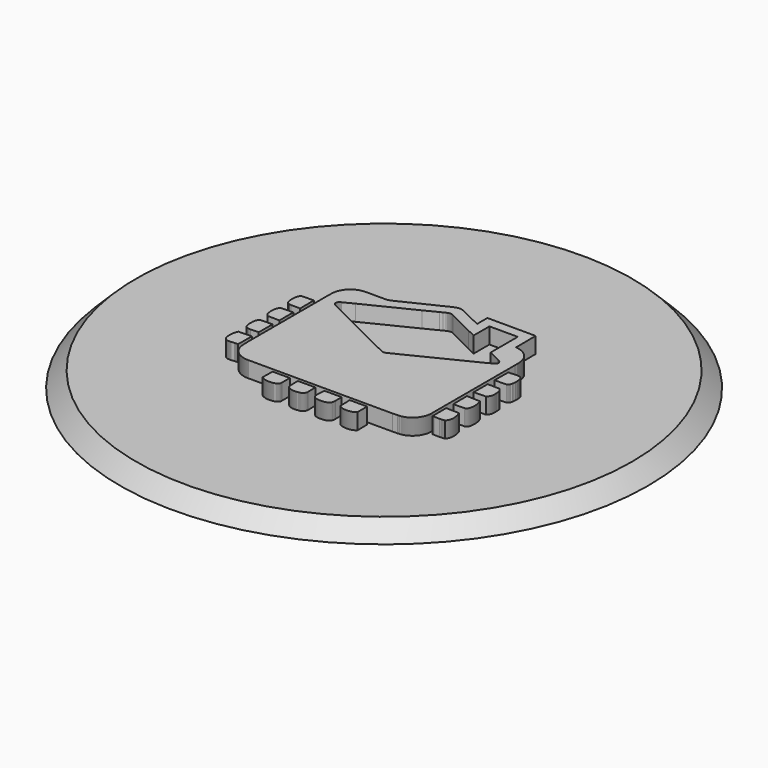
from build123d import *

# Parameters (mm, degrees)
F0_R     = 33
F1_DEPTH = 2
F1_TAPER = 45
F3_DEPTH = 4


with BuildPart() as f1:
    # F0 (on Top) → F1 (new body)
    with BuildSketch(Plane.XY):
        Circle(F0_R)
    extrude(amount=F1_DEPTH, taper=F1_TAPER)

    # F2 (on Top) → F3 (join)
    with BuildSketch(Plane.XY):
        Polygon((9.4269419945, 11.8972070474), (3.3869286816, 11.9156423447), (3.3851533988, 10.2973705194), (1.0469633428, 11.4359142686), (0.5762196665, 11.6568354771), (0.4432116742, 11.7067032156), (0.3533763147, 11.7349436031), (0.2625777239, 11.758285765), (0.2168177567, 11.7678835229), (0.1708072629, 11.7759738022), (0.1245462427, 11.7824615755), (0.0780346958, 11.7872518156), (0.0312683031, 11.7902451757), (-0.0157529357, 11.791350948), (-0.0630376592, 11.7904741052), (-0.1105815481, 11.7875153004), (-0.1583889218, 11.7823838259), (-0.2064640998, 11.7749846543), (-0.2548114014, 11.7652184389), (-0.3568232142, 11.735401462), (-0.5071909676, 11.6841169527), (-0.7035260204, 11.6054732183), (-1.654326049, 11.1387163694), (-6.0298885853, 9.0300042989), (-6.5006797753, 8.8333496087), (-6.6307980736, 8.8070702392), (-6.9432521749, 8.7949585771), (-7.4643646428, 8.7899480465), (-8.9237378543, 8.7959606833), (-9.2360969282, 8.7855811098), (-9.4441937699, 8.7737458908), (-9.6521610289, 8.7572025007), (-9.7329644749, 8.7491726934), (-9.8130897714, 8.7378298886), (-9.8924807661, 8.7232561554), (-9.9710597092, 8.7055292434), (-10.0487661289, 8.6847225829), (-10.1255309144, 8.6609182427), (-10.2012849549, 8.6341896532), (-10.2759634591, 8.604614564), (-10.3494973161, 8.572275044), (-10.4218217348, 8.5372402041), (-10.4928676042, 8.4995964327), (-10.5625701331, 8.4594128406), (-10.6308602106, 8.4167714967), (-10.6976687261, 8.3717458314), (-10.7629352076, 8.3244179137), (-10.8265862248, 8.2748611736), (-10.8885526671, 8.2231576804), (-10.9487740625, 8.1693808641), (-11.0071813003, 8.113604155), (-11.0637052696, 8.0559139414), (-11.1182768597, 7.9963836537), (-11.1708355987, 7.935086722), (-11.2213080565, 7.8721052153), (-11.2696294415, 7.8075168832), (-11.3157349626, 7.7413908366), (-11.3595511894, 7.6738177832), (-11.4010176502, 7.6048625145), (-11.4400609146, 7.5346114189), (-11.4766205109, 7.4631336072), (-11.5055865615, 7.4065621242), (-11.5322114848, 7.3492779365), (-11.5565903082, 7.2913199187), (-11.5788310172, 7.2327312652), (-11.5990329586, 7.1735508507), (-11.6172997984, 7.1138132307), (-11.6337265641, 7.0535615993), (-11.6484212411, 6.992830512), (-11.6614831762, 6.9316674824), (-11.6730117162, 6.8701027464), (-11.6831148466, 6.8081838178), (-11.6918875947, 6.7459409324), (-11.7058566087, 6.6206560684), (-11.7193850415, 6.431309842), (-11.736269666, 5.6768362274), (-11.7346671601, -6.6224572678), (-11.7055283325, -7.4119268476), (-11.6776119017, -7.6570368249), (-11.6524901376, -7.8027568791), (-11.6196884393, -7.9471206344), (-11.5929857664, -8.0424805359), (-11.5576658445, -8.1405659933), (-11.5176939041, -8.2364701421), (-11.4732384027, -8.3300849966), (-11.4244634782, -8.4213068909), (-11.37152463, -8.5100321586), (-11.314585996, -8.5961614532), (-11.2538117145, -8.6795824695), (-11.189361604, -8.7602044997), (-11.1213954831, -8.8379109194), (-11.0500818095, -8.9126067013), (-10.9755760822, -8.9841838597), (-10.8980467589, -9.052543048), (-10.8176493387, -9.1175762807), (-10.7345522791, -9.1791842109), (-10.6489110793, -9.237258853), (-10.5608898775, -9.291696541), (-10.4706571312, -9.3424022476), (-10.37836402, -9.3892636677), (-10.2841790016, -9.4321771351), (-10.188266214, -9.4710433032), (-10.0907811564, -9.5057585059), (-9.9918879669, -9.5362147574), (-9.8917507836, -9.5623127111), (-9.7905337445, -9.5839487009), (-9.688392349, -9.6010190606), (-9.5854907349, -9.6134158046), (-9.48199736, -9.6210395862), (-9.3780634038, -9.6237910586), (-9.2738616435, -9.6215535975), (8.7261372105, -9.6279765795), (9.3621981632, -9.6138866217), (9.5538380032, -9.5996411647), (9.6807858451, -9.5853654717), (9.8066970254, -9.5664507184), (9.8691645208, -9.5550258446), (9.9312475875, -9.5421798806), (9.9929116702, -9.5278177991), (10.0541092552, -9.5118532117), (10.1148057871, -9.4941954105), (10.1749537523, -9.4747623264), (10.2345185954, -9.4534589322), (10.2934528028, -9.4302031588), (10.351721819, -9.4048999789), (10.4092824498, -9.3774673235), (10.4660915011, -9.3478144846), (10.5221100979, -9.3158507544), (10.6015702033, -9.2693694436), (10.678797167, -9.2197435928), (10.7537305172, -9.1670811876), (10.82632274, -9.1114988525), (10.8965176831, -9.053104573), (10.9642678328, -8.9920149736), (11.0295083978, -8.9283466787), (11.0921961837, -8.8622076737), (11.1522793576, -8.7937145833), (11.209693128, -8.7229753929), (11.2643986203, -8.6501110464), (11.3163310429, -8.5752295293), (11.3654472018, -8.4984431467), (11.411686625, -8.419868523), (11.4549974794, -8.3396136438), (11.4953279319, -8.2577994528), (11.5326261494, -8.1745339357), (11.5668359796, -8.0899337169), (11.5979055892, -8.004106782), (11.6257831452, -7.9171697554), (11.6504124951, -7.829234942), (11.6717461253, -7.7404189664), (11.6897235638, -7.6508298141), (11.704297297, -7.56057979), (11.7154111723, -7.469789838), (11.7230133568, -7.3785679438), (11.7270520173, -7.2870264122), (11.7274710013, -7.1952775484), (11.7242227953, -7.1034379767), (11.7289223275, 5.7971235189), (11.7248793475, 6.1612724746), (11.7151995206, 6.3838048279), (11.7039949374, 6.5325312005), (11.6880217111, 6.6808169919), (11.6779920109, 6.7545970561), (11.6664548321, 6.828027247), (11.6533151474, 6.9010341345), (11.6384649711, 6.9735356495), (11.6217963178, 7.0454497229), (11.60321416, 7.1167029247), (11.5826105123, 7.1872175051), (11.5598817085, 7.2569070757), (11.5349240825, 7.3256982063), (11.5076382874, 7.3935088279), (11.4779120184, 7.4602611909), (11.4456459286, 7.5258775456), (11.4107406713, 7.5902758231), (11.3730839417, 7.6533782736), (11.3325807122, 7.7151114671), (11.2891229975, 7.775389015), (11.2426071312, 7.8341331677), (11.1992703603, 7.8932703879), (11.1539812102, 7.9505286592), (11.1068131111, 8.0059209397), (11.0578308543, 8.0594472294), (11.0071121895, 8.1111204867), (10.9547175886, 8.160945031), (10.9007248011, 8.208929501), (10.8451986185, 8.2550782163), (10.788212471, 8.2994041351), (10.7298397886, 8.3419072574), (10.6701410434, 8.3826005414), (10.6091939849, 8.4214883067), (10.5470634045, 8.4585791919), (10.4838270519, 8.4938775166), (10.4195453989, 8.5273919197), (10.3542961951, 8.5591310398), (10.2881485513, 8.589103516), (10.2211672589, 8.6173093482), (10.1534257481, 8.643765814), (10.084997449, 8.6684729135), (10.015947153, 8.6914349662), (9.9463482903, 8.7126692496), (9.8762656522, 8.7321757639), (9.8057769883, 8.7499631478), (9.73494709, 8.7660400402), (9.6638493875, 8.7804107605), (9.5925486721, 8.793088267), (9.5211226935, 8.8040725596), (9.4496362429, 8.8133722774), align=None)
        Polygon((4.6436259274, 8.191038451), (4.6463342056, 10.6561201963), (8.1865289734, 10.6558610309), (8.1908224798, 6.4087451763), (9.5975332863, 5.7258875949), (9.8446042816, 5.5856877633), (10.0260330057, 5.4736678473), (10.0447922598, 5.4584375619), (10.0622081733, 5.441937366), (10.0782764268, 5.4242622871), (10.0930056592, 5.405503033), (10.1063872317, 5.3857546311), (10.118429783, 5.3651077892), (10.1291333132, 5.343661854), (10.1384891834, 5.3215075335), (10.1465103519, 5.2987398549), (10.1531881798, 5.2754538455), (10.1585269867, 5.2517402133), (10.1625267723, 5.2276983049), (10.1651918563, 5.2034145088), (10.1665049609, 5.1545100016), (10.1651529815, 5.1300793452), (10.1624706198, 5.1057825908), (10.158449237, 5.0817234047), (10.1530931525, 5.0579838559), (10.1464066857, 5.0346676106), (10.1383811978, 5.0118610572), (10.1290253276, 4.9896678618), (10.1183390751, 4.9681700936), (10.1063181209, 4.9474714186), (10.0929667844, 4.9276625447), (10.0782850657, 4.9088341799), (10.0622686452, 4.8910813514), (10.0449261619, 4.8745034059), (10.0262576157, 4.8591910514), (9.2084569405, 4.4110811516), (3.8038264309, 1.7230955826), (0.5083269758, 0.0924356521), (0.2501464245, -0.0188240454), (0.1404071639, -0.0516559796), (0.0849716892, -0.0632233944), (0.0294325483, -0.0707694264), (-0.0260072459, -0.0737109534), (-0.0536213171, -0.0732703723), (-0.0811360415, -0.071460534), (-0.1085211833, -0.0682036891), (-0.1357551453, -0.0634307267), (-0.1628076916, -0.0570638972), (-0.1896572249, -0.0490340898), (-0.2162778288, -0.039263555), (-0.2426392674, -0.0276788626), (-0.2687199434, -0.0142109017), (-1.3674818068, 0.5184128285), (-2.9128547302, 1.2967858106), (-4.2980461712, 1.9645383697), (-9.575055009, 4.5915596026), (-9.8023991995, 4.7139418143), (-9.962572043, 4.8046712944), (-10.0040730592, 4.8348511028), (-10.0425418404, 4.8678169391), (-10.0773607091, 4.9040655369), (-10.0932086721, 4.9235720512), (-10.1079076686, 4.944084991), (-10.1213885877, 4.9656605088), (-10.1335650412, 4.9883633961), (-10.1443635986, 5.0122541247), (-10.1537065106, 5.0373931665), (-10.1633690598, 5.0658322475), (-10.1707466343, 5.0937270812), (-10.1759299419, 5.1210733482), (-10.1789967322, 5.1478624096), (-10.1800333937, 5.1740813072), (-10.1791219955, 5.199730041), (-10.1763446065, 5.2247956526), (-10.1717876152, 5.2492738227), (-10.1655330908, 5.2731559125), (-10.1576587826, 5.296433283), (-10.1482597182, 5.3190972954), (-10.1374050082, 5.341139311), (-10.12518968, 5.3625550102), (-10.1116871637, 5.3833357542), (-10.0811747596, 5.4229621408), (-10.0465286678, 5.4599579988), (-10.0084227181, 5.4942585368), (-9.9462187076, 5.540519557), (-9.8799630782, 5.580374873), (-9.8119019301, 5.613612833), (-8.5670917364, 6.2440153415), (-2.6240840252, 9.1783462428), (-1.0665605649, 9.9635352744), (-0.7560372458, 10.1225418737), (-0.4552844614, 10.2705166667), (-0.3371698396, 10.3192872717), (-0.2573684998, 10.3469013429), (-0.2172281019, 10.3588445475), (-0.1769624407, 10.3693666619), (-0.1365974328, 10.3783424229), (-0.0961546753, 10.3856292895), (-0.0556644041, 10.3911019984), (-0.0151525359, 10.394630967), (0.025355013, 10.3960779737), (0.0658366453, 10.3953134358), (0.1062621251, 10.3922034513), (0.1466098553, 10.3866227568), (0.1868495999, 10.3784331308), (0.2269597619, 10.3675049906), (0.2669144246, 10.3537044341), (0.3066833521, 10.3369018787), (0.3462406279, 10.3169634221), (0.3855689743, 10.2937594818), (3.6086749, 8.6839796421), (4.4949513879, 8.2597561514), align=None, mode=Mode.SUBTRACT)
        Polygon((12.2208268571, 4.2145776412), (12.1632143931, 4.2213073023), (12.141850527, 2.0668914171), (13.6223932307, 2.1063363878), (13.6622442272, 2.1237047877), (13.6992746406, 2.14494771), (13.7335838174, 2.1697282397), (13.7652840628, 2.1976878648), (13.8081716137, 2.2448257279), (13.8457808297, 2.2971598569), (13.8977218913, 2.3927141325), (13.9672991569, 2.5954203342), (13.9798557195, 2.6910955536), (14.0099966532, 3.030152981), (14.0138063843, 3.2249935135), (14.0083250365, 3.37069629), (14.0001094939, 3.4673390601), (13.987876888, 3.5634030275), (13.9713075814, 3.6587370125), (13.9500862562, 3.7531898351), (13.923901914, 3.8465973574), (13.9088444055, 3.8928626971), (13.8924305981, 3.9388127189), (13.8746172977, 3.9844215063), (13.831099111, 4.0340473571), (13.7852613941, 4.0778506257), (13.7372510076, 4.1161509494), (13.6871932145, 4.149272285), (13.635221917, 4.1775213114), (13.5814753366, 4.2012263048), (13.5260873756, 4.2206939442), (13.4691876164, 4.2362525058), (13.4109142808, 4.2482129881), (13.3514012708, 4.2568950283), (13.290778169, 4.2626182638), (13.2291875165, 4.2656980124), (13.1667545766, 4.266449592), (13.1036175706, 4.2651926399), (13.0399104009, 4.2622467934), (12.9757669694, 4.2579273704), (12.5892563609, 4.2209531096), (12.4630082656, 4.2120421399), (12.4009727125, 4.209653499), (12.3398399189, 4.2090703769), (12.2797481061, 4.2106037721), align=None)
        Polygon((13.6299954151, 0.9744488695), (12.1446797491, 1.0040153199), (12.1444076254, -1.1711337956), (13.6301854698, -1.1395933689), (13.6806233721, -1.1013794337), (13.7267936845, -1.060945315), (13.7688648645, -1.0184076374), (13.8070096889, -0.9738873446), (13.841392296, -0.927501061), (13.8721854625, -0.87937405), (13.8995533266, -0.8296272553), (13.9236686652, -0.7783729821), (13.9446999358, -0.7257364935), (13.9628112764, -0.6718344139), (13.9781797834, -0.6167876872), (13.9909652755, -0.5607215768), (14.0013448489, -0.503744068), (14.0094826418, -0.4459847437), (14.0155471117, -0.3875645477), (14.0197067161, -0.3285914655), (14.0221342318, -0.2691993994), (14.0229981164, -0.2094963347), (14.0206958639, -0.0896582631), (14.0097245295, 0.0893990977), (13.9881403728, 0.3218013326), (13.9774066067, 0.4331258215), (13.9701672537, 0.4785963873), (13.9529197977, 0.5445539765), (13.928700793, 0.6078119263), (13.8869276532, 0.6879329034), (13.8077267131, 0.7990630182), align=None)
        Polygon((13.7937836157, -2.2832124401), (12.1420664982, -2.2339969345), (12.163672252, -4.3933153648), (13.5612517982, -4.3715713894), (13.5826502197, -4.3666602055), (13.6239309453, -4.3535162013), (13.6631340284, -4.3361996345), (13.7001860388, -4.3150517395), (13.7350221853, -4.2904007925), (13.7675690376, -4.2625750696), (13.8119511088, -4.2156099833), (13.850787041, -4.1633622428), (13.8935450092, -4.0874181477), (13.9254698646, -4.0067226873), (13.9460044015, -3.923915029), (13.9597531249, -3.8675336007), (13.971977092, -3.8109016458), (13.9826849416, -3.7540321226), (13.9919025903, -3.696963906), (13.9996473157, -3.6397142736), (14.005940715, -3.5823177808), (14.0108000659, -3.5248003442), (14.0142383266, -3.4671835609), (14.0162857331, -3.4095019862), (14.0169552436, -3.3517815367), (14.0162684554, -3.2940394901), (14.010903732, -3.1786331465), (14.0003341039, -3.0634902877), (13.9847237092, -2.9488355237), (13.9642280471, -2.8348805062), (13.938993978, -2.7218412065), (13.909177001, -2.6099422343), (13.8749326155, -2.4993909222), (13.8364163207, -2.3904075606), align=None)
        Polygon((13.7937836157, -5.5227796868), (12.1420621787, -5.4735641812), (12.1636592937, -7.6312066754), (12.3221950759, -7.6315695069), (13.0715890491, -7.6530672752), (13.2308245779, -7.6473051649), (13.3360802774, -7.6387095131), (13.4404288981, -7.6255093565), (13.4922144604, -7.6169698572), (13.5437106214, -7.6070179066), (13.5949044227, -7.5955714357), (13.6457699479, -7.5825440559), (13.6962899193, -7.5678536983), (13.7467364604, -7.5119387676), (13.7924921082, -7.4536611126), (13.8337080425, -7.3931762324), (13.8705224847, -7.3306180291), (13.903090934, -7.2661420021), (13.9315559316, -7.1998863727), (13.9560729765, -7.1320066404), (13.9767802903, -7.0626453459), (13.9938290529, -6.9919450303), (14.0073661246, -6.9200568734), (14.0175426852, -6.8471234161), (14.0245012756, -6.7732958383), (14.0283930757, -6.6987166808), (14.0293606265, -6.6235328042), (14.0275594271, -6.5478910687), (14.0231320185, -6.4719383347), (14.0162252611, -6.3958214627), (14.0069903348, -6.3196829935), (13.9955697804, -6.2436741071), (13.9821147777, -6.1679373443), (13.9667721873, -6.0926238849), (13.9496888693, -6.0178719506), (13.9310160037, -5.9438370404), (13.9108961314, -5.870657376), (13.8894761128, -5.7984884566), (13.866911447, -5.7274685037), (13.8433403557, -5.6577443777), (13.8189140187, -5.5894672584), align=None)
        Polygon((5.9043791114, -10.0408961402), (3.7419031828, -10.0406974468), (3.7774995477, -11.4582500049), (3.7811451407, -11.4809096979), (3.7863327678, -11.5025413683), (3.7929803598, -11.5231795713), (3.8010144865, -11.5428588625), (3.8103660373, -11.5616181166), (3.8209529431, -11.5794918889), (3.8327104125, -11.5965190544), (3.8594217243, -11.6281761055), (3.8899125312, -11.6568786713), (3.9235824334, -11.6829204726), (3.9787544234, -11.7176270363), (4.2363518526, -11.8304158096), (4.2949923391, -11.8453307772), (4.3541166011, -11.858807377), (4.4136641665, -11.8708153729), (4.4735788829, -11.881324529), (4.5338045977, -11.8903132483), (4.5942765197, -11.8977426558), (4.6549384962, -11.903595474), (4.7157343749, -11.907832828), (4.7766036837, -11.9104331206), (4.8374859509, -11.9113617965), (4.8983207043, -11.9105972587), (4.9590561111, -11.908109271), (5.0196273797, -11.9038632782), (5.0799783578, -11.8978376831), (5.1400485734, -11.8899979304), (5.199781874, -11.8803224229), (5.2591177877, -11.8687766052), (5.3179958426, -11.8553345609), (5.3763598861, -11.8399660538), (5.4341494464, -11.8226451676), (5.4913083709, -11.8033416663), (5.5477761877, -11.7820253138), (5.6034924249, -11.7586701936), (5.65840093, -11.7332460699), (5.7124455505, -11.705727026), (5.7655614951, -11.676082826), (5.8176882918, -11.6442832339), (5.8687741076, -11.6102980137), (5.9187584705, -11.5741055685), align=None)
        Polygon((2.7337628139, -10.0407967935), (0.5599181641, -10.0416649975), (0.522032505, -10.7136030775), (0.5206330119, -11.0978287113), (0.5344076519, -11.2891143586), (0.5533267246, -11.4319879131), (0.5683453583, -11.468422246), (0.5853682044, -11.5031849623), (0.6043088742, -11.5363019784), (0.6250680211, -11.567790572), (0.6475592567, -11.5976766598), (0.6716875535, -11.6259904775), (0.6973665232, -11.6527449835), (0.7245011385, -11.6779704138), (0.7530006914, -11.7016926849), (0.7827701547, -11.7239290745), (0.8137231399, -11.7447054991), (0.8457646197, -11.7640478753), (0.8788082056, -11.7819821196), (0.9127545509, -11.7985255096), (0.9475172672, -11.813703962), (0.9830013271, -11.8275433933), (1.0191203422, -11.8400654006), (1.0557792851, -11.8512959004), (1.0928874481, -11.8612564898), (1.1680799636, -11.8774672843), (1.2439679062, -11.8888835193), (1.3198212934, -11.8956952493), (1.3949058234, -11.8981011679), (1.4684871941, -11.8962826909), (1.5612813583, -11.9012845827), (1.6576995184, -11.9036041128), (1.7565927079, -11.9024940211), (1.8568205991, -11.8972113668), (1.957229906, -11.8870088897), (2.0071451582, -11.8798343281), (2.0566759817, -11.8711479684), (2.1056798356, -11.8608591029), (2.1540141789, -11.8488813429), (2.2015321512, -11.8351110224), (2.2480955311, -11.8194617529), (2.2935574582, -11.8018385071), (2.3377753914, -11.782150577), (2.3806067898, -11.7602986161), (2.4219091125, -11.7361962358), (2.461535499, -11.7097527282), (2.4993477279, -11.6808644272), (2.5351989388, -11.6494449444), (2.5689465907, -11.6154035717), (2.6004481426, -11.578645282), (2.6295567342, -11.5390707285), (2.6561341438, -11.4965978422), (2.6800335113, -11.4511272764), (2.7011122955, -11.4025640036), (2.7197074115, -11.2629991272), (2.7358404564, -11.0289382339), align=None)
        Polygon((-0.5640604907, -10.0415181371), (-2.7388294971, -10.0405851418), (-2.7325576949, -10.9911216856), (-2.7139107458, -11.2396958401), (-2.6938167901, -11.387679272), (-2.6758609487, -11.4857215351), (-2.6376210969, -11.5372090572), (-2.5968543827, -11.5847875015), (-2.5537033469, -11.6285864507), (-2.5083062112, -11.668731168), (-2.4608055166, -11.7053382779), (-2.4113308456, -11.7385330436), (-2.3600333781, -11.7684407285), (-2.3070426968, -11.7951822762), (-2.2525013426, -11.8188829502), (-2.1965475371, -11.8396593748), (-2.1393238213, -11.8576454522), (-2.0809640972, -11.8729578067), (-2.0216109058, -11.8857217016), (-1.9614024687, -11.8960537614), (-1.9004770073, -11.9040878882), (-1.8389770627, -11.9099407064), (-1.7770365369, -11.9137331598), (-1.714797971, -11.9155948311), (-1.6523995864, -11.9156423447), (-1.5899796047, -11.9140052834), (-1.5276805668, -11.9108002715), (-1.4656363749, -11.9061568918), (-1.342874054, -11.8930344848), (-1.2228156918, -11.8756272101), (-1.1065670607, -11.8549112574), (-1.0502158683, -11.8436246051), (-1.0231546832, -11.8408774521), (-0.9966679814, -11.8365796262), (-0.9707687211, -11.83078728), (-0.9454698607, -11.8235565659), (-0.9207800388, -11.8149522753), (-0.8967078945, -11.8050219218), (-0.8732620664, -11.7938302968), (-0.8282925536, -11.7678835229), (-0.7859449306, -11.7375654929), (-0.7463012663, -11.7033340656), (-0.7094349911, -11.6656514194), (-0.6754281738, -11.6249710937), (-0.6299403303, -11.5593417807), (-0.5913160498, -11.4895528633), (-0.5598144979, -11.4171506951), (-0.5356948399, -11.3436773099), (-0.5296390089, -11.2538635476), align=None)
        Polygon((-3.7471383235, -10.0407838352), (-5.9091391155, -10.0405462669), (-5.9248963706, -11.574131485), (-5.8762855842, -11.6095723507), (-5.8266597334, -11.6428535049), (-5.7760706513, -11.6739965447), (-5.7245744903, -11.7030446643), (-5.6722144448, -11.7300237803), (-5.6190509865, -11.754977087), (-5.5651229904, -11.7779305008), (-5.5104952478, -11.7989185771), (-5.4552109529, -11.8179758714), (-5.3993219387, -11.8351369389), (-5.3428800385, -11.8504363352), (-5.2859370851, -11.8639086155), (-5.2285449118, -11.8755840159), (-5.1707553515, -11.8854970916), (-5.112615918, -11.8936823982), (-5.0541827637, -11.900174491), (-4.9955034023, -11.9050036059), (-4.9366296669, -11.9082086178), (-4.8776177099, -11.9098154431), (-4.8185107256, -11.9098672762), (-4.7593648666, -11.9083943529), (-4.7002319657, -11.9054269093), (-4.6411595369, -11.9010038202), (-4.5822037324, -11.8951553215), (-4.523412066, -11.8879116491), (-4.4648363708, -11.8793159973), (-4.4065284797, -11.8693942827), (-4.2909191233, -11.8457195253), (-4.1057497789, -11.7775676692), (-3.9923346893, -11.7208752424), (-3.9300788456, -11.6796506694), (-3.8922752556, -11.6486372123), (-3.8581518139, -11.6145094512), (-3.842662363, -11.5962037365), (-3.8283261981, -11.577021179), (-3.8152167493, -11.5569358621), (-3.8034160857, -11.5359132303), (-3.792993318, -11.5139273673), (-3.7840348347, -11.4909393981), (-3.776614066, -11.4669277257), (-3.7708044421, -11.4418534752), (-3.7666923514, -11.4156864107), (-3.7504513209, -11.2267030158), align=None)
        Polygon((-12.1480402602, -5.4735641812), (-13.7999733489, -5.5227753674), (-13.824788434, -5.5836058014), (-13.8482904145, -5.6450841489), (-13.870444735, -5.7071715351), (-13.8912211597, -5.7698161268), (-13.9105980912, -5.8329747298), (-13.9285409743, -5.8966127888), (-13.9450238925, -5.9606741513), (-13.9600166097, -6.0251242618), (-13.9734975289, -6.0899112873), (-13.9854277752, -6.154996353), (-13.9957857515, -6.2203362646), (-14.0045412219, -6.2858835086), (-14.0116682699, -6.3515948906), (-14.0171366594, -6.4174272165), (-14.0209161545, -6.4833329726), (-14.0229765193, -6.549273284), (-14.023300476, -6.6152049566), (-14.0218448305, -6.6810761573), (-14.0185923049, -6.7468480113), (-14.0135083441, -6.8124816437), (-14.0065670313, -6.8779209021), (-13.9977424501, -6.943131231), (-13.9870000452, -7.0080651169), (-13.9743182192, -7.0726793655), (-13.959662417, -7.1369307826), (-13.9430110414, -7.2007718544), (-13.9243252175, -7.2641637063), (-13.9035876677, -7.3270545051), (-13.8807638366, -7.3894096955), (-13.8372542887, -7.4390312269), (-13.7914295302, -7.4828301761), (-13.7434277824, -7.5211261803), (-13.693387267, -7.5542302382), (-13.6414332472, -7.5824706257), (-13.5877039446, -7.6061583414), (-13.5323332612, -7.6256087032), (-13.4754550992, -7.6411499871), (-13.4171990413, -7.6530888723), (-13.3577076283, -7.6617493154), (-13.2971061237, -7.6674509537), (-13.2355284295, -7.6705091052), (-13.1731170866, -7.6712434071), (-13.109993039, -7.6699691773), (-13.0463031469, -7.6670060532), (-12.9821726737, -7.6626736719), (-12.5956663846, -7.6256950916), (-12.4693837339, -7.6168186774), (-12.4073265837, -7.6144602724), (-12.3461635541, -7.6139073863), (-12.286037186, -7.6154882951), (-12.2270770621, -7.6195096779), (-12.1694127651, -7.6262954914), align=None)
        Polygon((-13.5150858052, -2.2664617177), (-13.670727574, -2.2880199579), (-13.7065010352, -2.3121525742), (-13.7397001204, -2.3381986948), (-13.7704284956, -2.3660460149), (-13.7987811881, -2.395599507), (-13.8248532253, -2.4267468662), (-13.8487439539, -2.4593887458), (-13.8705484012, -2.4934214796), (-13.8903615945, -2.528737082), (-13.9082871999, -2.5652318869), (-13.9244159254, -2.6028065475), (-13.9388427982, -2.6413573978), (-13.9516714845, -2.680776452), (-13.9629926921, -2.7209600442), (-13.9729100873, -2.761804508), (-13.9889005913, -2.8450613862), (-14.0004204924, -2.929722077), (-14.0110117176, -3.0575122063), (-14.0172792004, -3.2657127141), (-14.0184670417, -3.3831837419), (-14.0179789469, -3.4199938647), (-14.0159185821, -3.4967284142), (-14.0088908809, -3.61750812), (-13.9951939906, -3.7417304059), (-13.9812811291, -3.8245812584), (-13.9627896793, -3.9061492422), (-13.9516239708, -3.9461039049), (-13.9390717276, -3.9853156269), (-13.9250508806, -4.0236418671), (-13.9094793607, -4.0609487236), (-13.8922750989, -4.0970893358), (-13.873364665, -4.1319254822), (-13.8526573511, -4.1653189414), (-13.8300797271, -4.1971228529), (-13.805549724, -4.2272033147), (-13.7789852725, -4.2554177857), (-13.7503043038, -4.281623725), (-13.7194247488, -4.3056872305), (-13.6862688579, -4.3274571224), (-13.6507588815, -4.3467994986), (-13.612808431, -4.363571818), (-13.5723354376, -4.3776358593), (-13.5244719114, -4.3846030886), (-13.3803975573, -4.400118456), (-13.1873625437, -4.4101265591), (-12.1694084457, -4.3874366301), (-12.1480445796, -2.2323123595), (-13.2538255053, -2.2445665626), align=None)
        Polygon((-12.1505973586, 1.0057085338), (-13.6363752029, 0.9741724265), (-13.6868044664, 0.9359498524), (-13.7329704594, 0.8955070949), (-13.7750416393, 0.8529694172), (-13.8131864638, 0.8084534438), (-13.8475777097, 0.7620757991), (-13.8783795151, 0.7139574269), (-13.905756018, 0.6642192711), (-13.9298843149, 0.6129779562), (-13.9509328631, 0.5603544258), (-13.9690614815, 0.5064696239), (-13.9844429467, 0.451440175), (-13.9972500359, 0.3953870227), (-14.0076425677, 0.3384311111), (-14.0157933188, 0.2806890645), (-14.0218750664, 0.2222775074), (-14.0260519485, 0.1633217029), (-14.028488103, 0.1039382755), (-14.0293606265, 0.0442481692), (-14.0270670129, -0.0755812636), (-14.0160827202, -0.2546515827), (-13.994412175, -0.487140206), (-13.9835963398, -0.5985510833), (-13.9804258834, -0.6214353864), (-13.9657009704, -0.688265499), (-13.9437669404, -0.7523743751), (-13.9046416069, -0.833627041), (-13.828516096, -0.9464806056), (-13.6361851483, -1.1398741314), (-12.1508694822, -1.1694362624), align=None)
        Polygon((-12.1698447074, 4.2271169262), (-13.6255075347, 4.207467871), (-13.6606719573, 4.1882723552), (-13.6936723489, 4.167081266), (-13.7245691816, 4.1439982695), (-13.7534315661, 4.1191227125), (-13.7803372519, 4.092558261), (-13.8053467111, 4.0644172202), (-13.8285376931, 4.0347902979), (-13.8499749895, 4.0037897991), (-13.8697277108, 3.9715150704), (-13.887864968, 3.9380697782), (-13.9044645106, 3.9035619079), (-13.919582491, 3.8680864868), (-13.9333009785, 3.8317515006), (-13.9456804448, 3.7946606153), (-13.9567986396, 3.7569174972), (-13.97551038, 3.6798849075), (-13.9899977247, 3.6014787412), (-14.0050206779, 3.4831006346), (-14.0154520844, 3.32817589), (-14.0185145553, 3.2177800771), (-14.0177370592, 3.1403846559), (-14.0131714291, 2.9347066911), (-14.0004377701, 2.7645127862), (-13.9889135495, 2.679826179), (-13.9729144068, 2.5965347454), (-13.963001331, 2.5556686844), (-13.9516758039, 2.5154678146), (-13.9388471176, 2.4760314826), (-13.9244159254, 2.4374633547), (-13.9082871999, 2.3998670969), (-13.8903659139, 2.3633506949), (-13.8705484012, 2.3280221343), (-13.8487439539, 2.2939764422), (-13.8248532253, 2.2613216044), (-13.7987811881, 2.2301656063), (-13.7704284956, 2.2006121142), (-13.7397001204, 2.1727604747), (-13.7065010352, 2.1467229929), (-13.6707318934, 2.122594696), (-13.5151074023, 2.1011487608), (-13.3062848976, 2.0825406866), (-12.1482562313, 2.0668914171), align=None)
    extrude(amount=F3_DEPTH)


solid = f1.part
